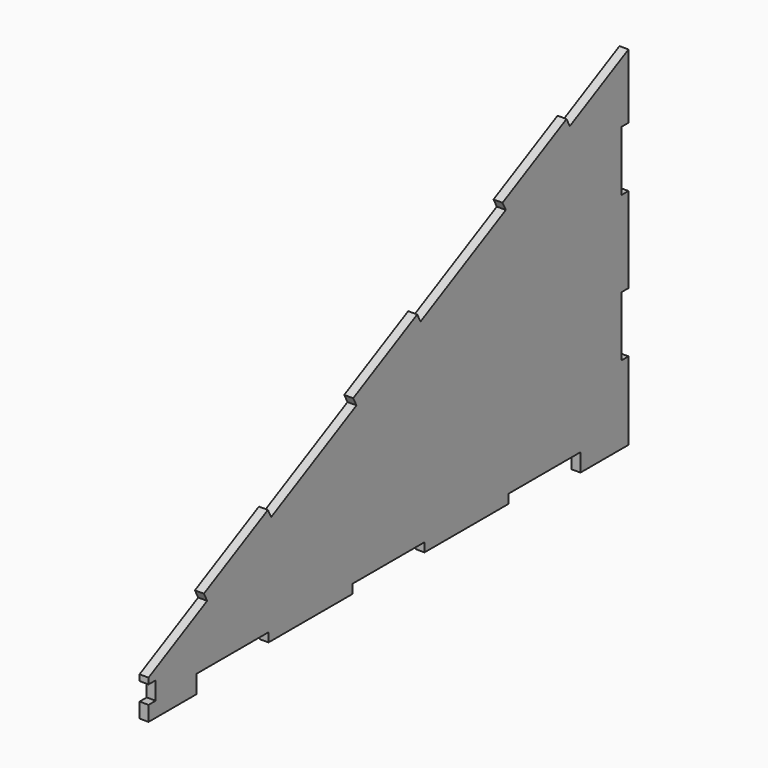
from build123d import *

# Parameters (mm, degrees)
F1_DEPTH = 3
F2_W     = 3
F2_H     = 6
F3_DEPTH = 3.001
F4_W     = 30
F4_H     = 3
F5_DEPTH = 3.001
F6_W     = 3
F6_H     = 20
F7_DEPTH = 3.001
F9_DEPTH = 3


with BuildPart() as f1:
    # F0 (on Right) → F1 (new body)
    with BuildSketch(Plane.YZ):
        Polygon((200, 116.077641), (0, 13), (0, 0), (20, 0), (20, 3), (180, 3), (180, 0), (200, 0), (200, 13), align=None)
    extrude(amount=F1_DEPTH)

    # F2 (on Right) → F3 (cut, through all)
    with BuildSketch(Plane.YZ):
        with Locations((1.5, 8)):
            Rectangle(F2_W, F2_H)
    extrude(amount=F3_DEPTH, mode=Mode.SUBTRACT)

    # F4 (on face) → F5 (cut, through all)
    with BuildSketch(Plane.YZ.offset(3)):
        Polygon((115, 3), (115, 4.5), (115, 6), (85, 6), (85, 3), align=None)
        Polygon((180, 6), (150, 6), (150, 4.5), (150, 3), (180, 3), align=None)
        with Locations((35, 4.5)):
            Rectangle(F4_W, F4_H)
    extrude(amount=-F5_DEPTH, mode=Mode.SUBTRACT)

    # F6 (on face) → F7 (cut, through all)
    with BuildSketch(Plane.YZ.offset(3)):
        with Locations((198.5, 84.531476)):
            Rectangle(F6_W, F6_H)
        with Locations((198.5, 36)):
            Rectangle(F6_W, F6_H)
    extrude(amount=-F7_DEPTH, mode=Mode.SUBTRACT)

    # F8 (on face) → F9 (join, through all)
    with BuildSketch(Plane.YZ.offset(3)):
        Polygon((23.070076, 28.265045), (24.444444, 25.598378), (51.111111, 39.342064), (49.736743, 42.00873), align=None)
        Polygon((147.51452, 92.402244), (148.888889, 89.735577), (175.555556, 103.479262), (174.181187, 106.145929), align=None)
        Polygon((85.292298, 60.333644), (86.666667, 57.666978), (113.333333, 71.410663), (111.958965, 74.07733), align=None)
    extrude(amount=-F9_DEPTH)


solid = f1.part
